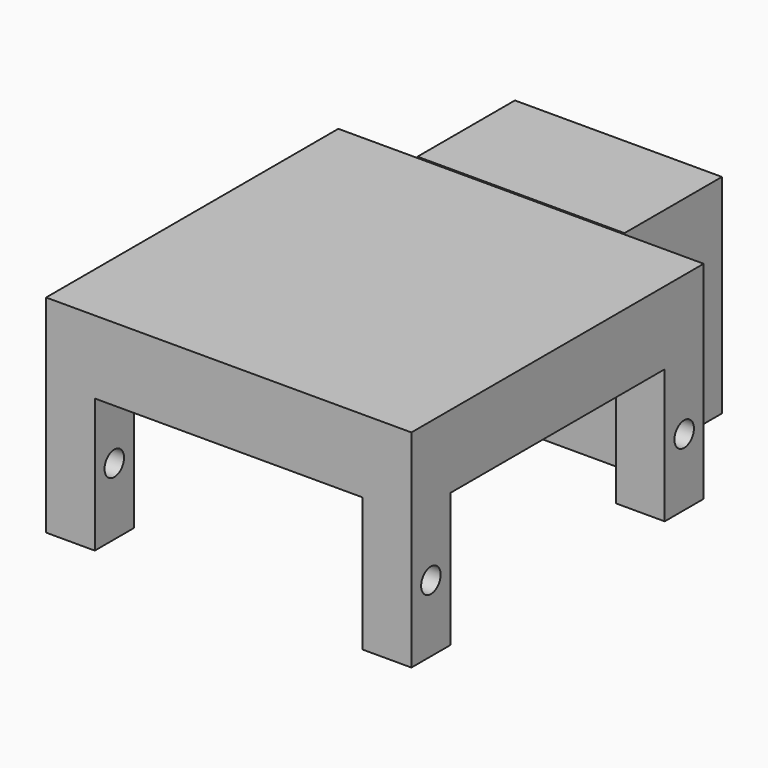
from build123d import *

# Parameters (mm, degrees)
F0_W     = 30
F0_H     = 30
F1_DEPTH = 6
F2_W     = 4
F2_H     = 4
F2_W_2   = 17
F2_H_2   = 10
F3_DEPTH = 11
F5_D     = 2
F6_DEPTH = 17.1


with BuildPart() as f1:
    # F0 (on Top) → F1 (new body)
    with BuildSketch(Plane.XY):
        with Locations((-3.4046042711, -2.673180324)):
            Rectangle(F0_W, F0_H)
    extrude(amount=F1_DEPTH)

    # F2 (on face) → F3 (join)
    with BuildSketch(Plane(origin=(0, 0, 0), x_dir=(1, 0, 0), z_dir=(0, 0, -1))):
        with Locations((-16.4046042711, 15.673180324)):
            Rectangle(F2_W, F2_H)
        with Locations((-3.4046042711, -17.326819676)):
            Rectangle(F2_W_2, F2_H_2)
        with Locations((9.5953957289, 15.673180324)):
            Rectangle(F2_W, F2_H)
        with Locations((-16.4046042711, -10.326819676)):
            Rectangle(F2_W, F2_H)
        with Locations((9.5953957289, -10.326819676)):
            Rectangle(F2_W, F2_H)
    extrude(amount=F3_DEPTH)

    # F5 (through all)
    with Locations(Plane.YZ.offset(11.5953957289)):
        with Locations((-15.673180324, -5.5), (10.326819676, -5.5)):
            Hole(F5_D / 2)


with BuildPart() as f6:
    # F6 (new): a face of the model
    f6_faces = [f1.part.faces().sort_by_distance(p)[0] for p in [
        (-3.4046042711, 17.326819676, -11),
    ]]
    extrude(f6_faces, amount=-F6_DEPTH)


solid = Compound([f1.part, f6.part])
